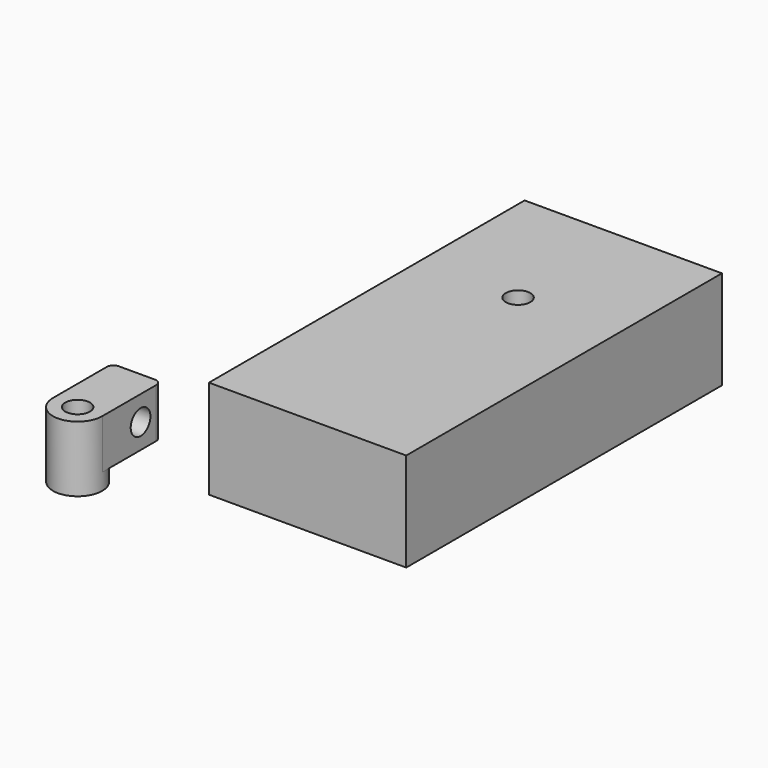
from build123d import *

# Parameters (mm, degrees)
F0_W      = 76.2
F0_H      = 152.4
F1_DEPTH  = 38.1
F3_W      = 63.5
F3_H      = 139.7
F4_DEPTH  = 31.75
F2_R      = 4.7625
F5_DEPTH  = 6.35
F6_R      = 4.7625
F7_DEPTH  = 19.05
F8_R      = 4.7625
F9_DEPTH  = 25.4
F10_R     = 4.7625
F11_DEPTH = 6.35
F13_DEPTH = 25.4
F14_R     = 2.54


with BuildPart() as f1:
    # F0 (on Top) → F1 (new body)
    with BuildSketch(Plane.XY):
        with Locations((38.1, 76.2)):
            Rectangle(F0_W, F0_H)
    extrude(amount=-F1_DEPTH)

    # F3 (on face) → F4 (cut)
    with BuildSketch(Plane(origin=(0, 0, -38.1), x_dir=(1, 0, 0), z_dir=(0, 0, -1))):
        with Locations((38.1, -76.2)):
            Rectangle(F3_W, F3_H)
    extrude(amount=-F4_DEPTH, mode=Mode.SUBTRACT)

    # F2 (on face) → F5 (cut)
    with BuildSketch(Plane.XY):
        with Locations((38.1, 101.6)):
            Circle(F2_R)
    extrude(amount=-F5_DEPTH, mode=Mode.SUBTRACT)


with BuildPart() as f7:
    # F6 (on Right) → F7 (new body)
    with BuildSketch(Plane.YZ):
        Polygon((-84.816796507, 25.4), (-84.816796507, 0), (-65.766796507, 0), (-65.766796507, 6.35), (-46.716796507, 6.35), (-46.716796507, 25.4), align=None)
        with Locations((-56.8071752787, 15.875)):
            Circle(F6_R, mode=Mode.SUBTRACT)
    extrude(amount=F7_DEPTH)

    # F8 (on face) → F9 (cut)
    with BuildSketch(Plane(origin=(0, 0, 0), x_dir=(1, 0, 0), z_dir=(0, 0, -1))):
        with Locations((9.525, 75.291796507)):
            Circle(F8_R)
    extrude(amount=-F9_DEPTH, mode=Mode.SUBTRACT)

    # F10 (on face) → F11 (cut)
    with BuildSketch(Plane(origin=(0, 0, 0), x_dir=(1, 0, 0), z_dir=(0, 0, -1))):
        with BuildLine():
            ThreePointArc((0, 75.291796507), (2.7898079092, 82.0269885978), (9.525, 84.816796507))
            Line((9.525, 84.816796507), (0, 84.816796507))
            Line((0, 84.816796507), (0, 75.291796507))
        make_face()
        with BuildLine():
            Line((0, 65.766796507), (9.525, 65.766796507))
            ThreePointArc((9.525, 65.766796507), (2.7898079092, 68.5566044162), (0, 75.291796507))
            Line((0, 75.291796507), (0, 65.766796507))
        make_face()
        with BuildLine():
            Line((19.05, 65.766796507), (19.05, 75.291796507))
            ThreePointArc((19.05, 75.291796507), (16.2601920908, 68.5566044162), (9.525, 65.766796507))
            Line((9.525, 65.766796507), (19.05, 65.766796507))
        make_face()
        with Locations((9.525, 75.291796507)):
            Circle(F10_R)
        with BuildLine():
            ThreePointArc((9.525, 84.816796507), (16.2601920908, 82.0269885978), (19.05, 75.291796507))
            Line((19.05, 75.291796507), (19.05, 84.816796507))
            Line((19.05, 84.816796507), (9.525, 84.816796507))
        make_face()
    extrude(amount=-F11_DEPTH, mode=Mode.SUBTRACT)

    # F12 (on face) → F13 (cut)
    with BuildSketch(Plane(origin=(0, 0, 0), x_dir=(1, 0, 0), z_dir=(0, 0, -1))):
        with BuildLine():
            ThreePointArc((0, 75.291796507), (9.525, 84.816796507), (19.05, 75.291796507))
            Line((19.05, 75.291796507), (19.05, 86.4143148065))
            Line((19.05, 86.4143148065), (-0.9318563389, 86.4143148065))
            Line((-0.9318563389, 86.4143148065), (-0.9318563389, 75.291796507))
            Line((-0.9318563389, 75.291796507), (0, 75.291796507))
        make_face()
    extrude(amount=-F13_DEPTH, mode=Mode.SUBTRACT)

    # F14
    f14_edges = [f7.edges().sort_by_distance(p)[0] for p in [
        (19.05, -46.716797, 15.875),
        (0, -46.716797, 15.875),
    ]]
    fillet(f14_edges, radius=F14_R)


solid = Compound([f1.part, f7.part])
